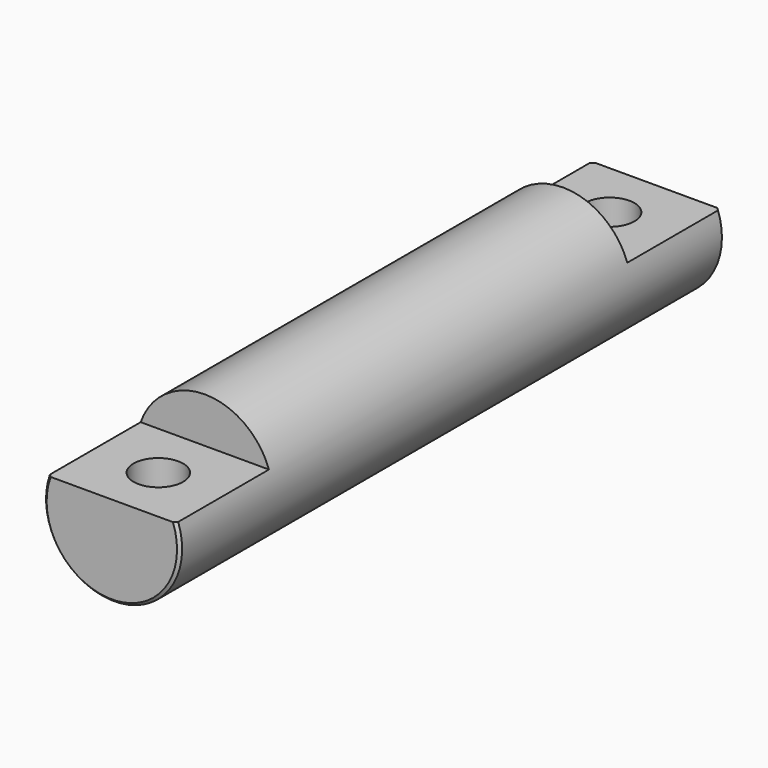
from build123d import *

# Parameters (mm, degrees)
F0_R     = 24
F1_DEPTH = 240
F2_SIZE  = 1
F5_W     = 50
F5_H     = 41
F6_DEPTH = 125
F8_D     = 17.5


with BuildPart() as f1:
    # F0 (on Front) → F1 (new body)
    with BuildSketch(Plane.XZ):
        Circle(F0_R)
    extrude(amount=F1_DEPTH)

    # F2
    f2_edges = [f1.edges().sort_by_distance(p)[0] for p in [
        (24, -120, 0),
        (-24, 0, 0),
        (-24, -240, 0),
    ]]
    chamfer(f2_edges, length=F2_SIZE)

    # F5 (on offset) → F6 (cut)
    with BuildSketch(Plane.XY.offset(8)):
        with Locations((0, -20.5)):
            Rectangle(F5_W, F5_H)
        with Locations((0, -219.5)):
            Rectangle(F5_W, F5_H)
    extrude(amount=F6_DEPTH, mode=Mode.SUBTRACT)

    # F8 (through all)
    with Locations(Plane.XY.offset(8)):
        with Locations((0, -20.5), (0, -219.5)):
            Hole(F8_D / 2)


solid = f1.part
